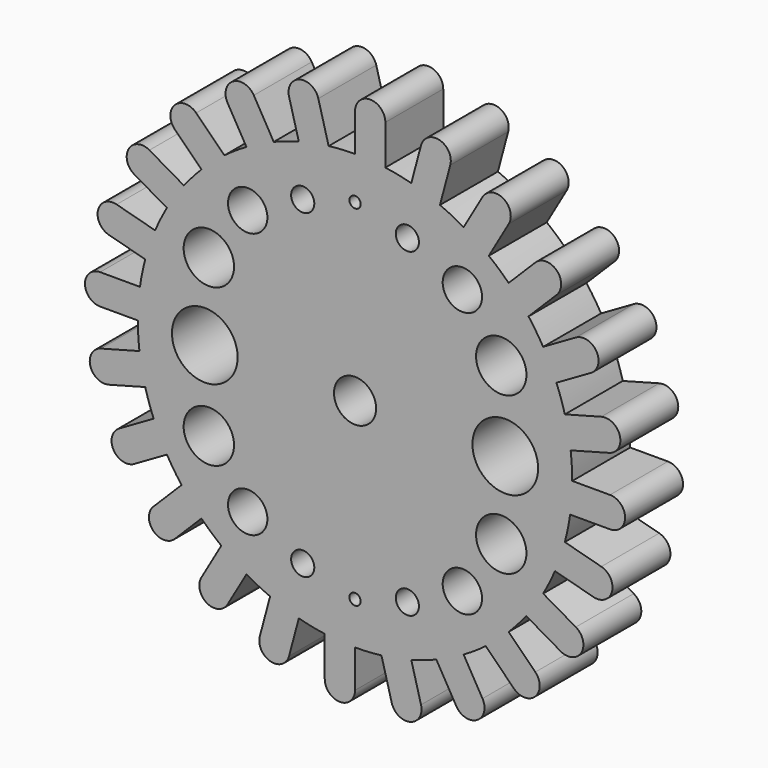
from build123d import *

# Parameters (mm, degrees)
F0_R     = 4.064719
F0_R_2   = 8.836782
F0_R_3   = 6.907397
F0_R_4   = 1.972813
F0_R_5   = 11.525027
F0_R_6   = 7.391959
F1_DEPTH = 25.4


with BuildPart() as f1:
    # F0 (on Front) → F1 (new body)
    with BuildSketch(Plane.XZ):
        with BuildLine():
            ThreePointArc((75.455146, -10.628306), (76.013558, -5.327187), (76.2, 0))
            ThreePointArc((76.2, 0), (76.058589, 4.640148), (75.634883, 9.263073))
            ThreePointArc((75.634883, 9.263073), (74.802237, 14.528089), (73.603548, 19.722011))
            ThreePointArc((73.603548, 19.722011), (72.265997, 24.16745), (70.660227, 28.52319))
            ThreePointArc((70.660227, 28.52319), (68.493266, 33.3933), (65.991136, 38.1))
            ThreePointArc((65.991136, 38.1), (63.548597, 42.047781), (60.870193, 45.839498))
            ThreePointArc((60.870193, 45.839498), (57.516593, 49.982812), (53.881537, 53.881537))
            ThreePointArc((53.881537, 53.881537), (50.500464, 57.062624), (46.931956, 60.03192))
            ThreePointArc((46.931956, 60.03192), (42.620259, 63.166079), (38.1, 65.991136))
            ThreePointArc((38.1, 65.991136), (34.010809, 68.188745), (29.795384, 70.133266))
            ThreePointArc((29.795384, 70.133266), (24.819425, 72.044682), (19.722011, 73.603548))
            ThreePointArc((19.722011, 73.603548), (15.203373, 74.667914), (10.628306, 75.455146))
            ThreePointArc((10.628306, 75.455146), (5.327187, 76.013558), (0, 76.2))
            ThreePointArc((0, 76.2), (-4.640148, 76.058589), (-9.263073, 75.634883))
            ThreePointArc((-9.263073, 75.634883), (-14.528089, 74.802237), (-19.722011, 73.603548))
            ThreePointArc((-19.722011, 73.603548), (-24.16745, 72.265997), (-28.52319, 70.660227))
            ThreePointArc((-28.52319, 70.660227), (-33.3933, 68.493266), (-38.1, 65.991136))
            ThreePointArc((-38.1, 65.991136), (-42.047781, 63.548597), (-45.839498, 60.870193))
            ThreePointArc((-45.839498, 60.870193), (-49.982812, 57.516593), (-53.881537, 53.881537))
            ThreePointArc((-53.881537, 53.881537), (-57.062624, 50.500464), (-60.03192, 46.931956))
            ThreePointArc((-60.03192, 46.931956), (-63.166079, 42.620259), (-65.991136, 38.1))
            ThreePointArc((-65.991136, 38.1), (-68.188745, 34.010809), (-70.133266, 29.795384))
            ThreePointArc((-70.133266, 29.795384), (-72.044682, 24.819425), (-73.603548, 19.722011))
            ThreePointArc((-73.603548, 19.722011), (-74.667914, 15.203373), (-75.455146, 10.628306))
            ThreePointArc((-75.455146, 10.628306), (-76.013558, 5.327187), (-76.2, 0))
            ThreePointArc((-76.2, 0), (-76.058589, -4.640148), (-75.634883, -9.263073))
            ThreePointArc((-75.634883, -9.263073), (-74.802237, -14.528089), (-73.603548, -19.722011))
            ThreePointArc((-73.603548, -19.722011), (-72.265997, -24.16745), (-70.660227, -28.52319))
            ThreePointArc((-70.660227, -28.52319), (-68.493266, -33.3933), (-65.991136, -38.1))
            ThreePointArc((-65.991136, -38.1), (-63.548597, -42.047781), (-60.870193, -45.839498))
            ThreePointArc((-60.870193, -45.839498), (-57.516593, -49.982812), (-53.881537, -53.881537))
            ThreePointArc((-53.881537, -53.881537), (-50.500464, -57.062624), (-46.931956, -60.03192))
            ThreePointArc((-46.931956, -60.03192), (-42.620259, -63.166079), (-38.1, -65.991136))
            ThreePointArc((-38.1, -65.991136), (-34.010809, -68.188745), (-29.795384, -70.133266))
            ThreePointArc((-29.795384, -70.133266), (-24.819425, -72.044682), (-19.722011, -73.603548))
            ThreePointArc((-19.722011, -73.603548), (-15.203373, -74.667914), (-10.628306, -75.455146))
            ThreePointArc((-10.628306, -75.455146), (-5.327187, -76.013558), (0, -76.2))
            ThreePointArc((0, -76.2), (4.640148, -76.058589), (9.263073, -75.634883))
            ThreePointArc((9.263073, -75.634883), (14.528089, -74.802237), (19.722011, -73.603548))
            ThreePointArc((19.722011, -73.603548), (24.16745, -72.265997), (28.52319, -70.660227))
            ThreePointArc((28.52319, -70.660227), (33.3933, -68.493266), (38.1, -65.991136))
            ThreePointArc((38.1, -65.991136), (42.047781, -63.548597), (45.839498, -60.870193))
            ThreePointArc((45.839498, -60.870193), (49.982812, -57.516593), (53.881537, -53.881537))
            ThreePointArc((53.881537, -53.881537), (57.062624, -50.500464), (60.03192, -46.931956))
            ThreePointArc((60.03192, -46.931956), (63.166079, -42.620259), (65.991136, -38.1))
            ThreePointArc((65.991136, -38.1), (68.188745, -34.010809), (70.133266, -29.795384))
            ThreePointArc((70.133266, -29.795384), (72.044682, -24.819425), (73.603548, -19.722011))
            ThreePointArc((73.603548, -19.722011), (74.667914, -15.203373), (75.455146, -10.628306))
        make_face()
        with Locations((-18.35509, -56.214772)):
            Circle(F0_R, mode=Mode.SUBTRACT)
        with Locations((-51.286597, -27.541656)):
            Circle(F0_R_2, mode=Mode.SUBTRACT)
        with Locations((-37.659761, -46.562437)):
            Circle(F0_R_3, mode=Mode.SUBTRACT)
        with Locations((0, -61.324835)):
            Circle(F0_R_4, mode=Mode.SUBTRACT)
        with Locations((18.35509, -56.214772)):
            Circle(F0_R, mode=Mode.SUBTRACT)
        with Locations((37.659761, -46.562437)):
            Circle(F0_R_3, mode=Mode.SUBTRACT)
        with Locations((51.286597, -27.541656)):
            Circle(F0_R_2, mode=Mode.SUBTRACT)
        with Locations((-52.706052, 0)):
            Circle(F0_R_5, mode=Mode.SUBTRACT)
        with Locations((-51.286597, 27.541656)):
            Circle(F0_R_2, mode=Mode.SUBTRACT)
        with Locations((-37.659761, 46.562437)):
            Circle(F0_R_3, mode=Mode.SUBTRACT)
        with Locations((-18.35509, 56.214772)):
            Circle(F0_R, mode=Mode.SUBTRACT)
        Circle(F0_R_6, mode=Mode.SUBTRACT)
        with Locations((37.659761, 46.562437)):
            Circle(F0_R_3, mode=Mode.SUBTRACT)
        with Locations((52.706052, 0)):
            Circle(F0_R_5, mode=Mode.SUBTRACT)
        with Locations((51.286597, 27.541656)):
            Circle(F0_R_2, mode=Mode.SUBTRACT)
        with Locations((18.35509, 56.214772)):
            Circle(F0_R, mode=Mode.SUBTRACT)
        with Locations((0, 61.324835)):
            Circle(F0_R_4, mode=Mode.SUBTRACT)
        with BuildLine():
            Line((89.434154, 0), (76.2, 0))
            ThreePointArc((76.2, 0), (76.013558, -5.327187), (75.455146, -10.628306))
            Line((75.455146, -10.628306), (89.434154, -10.628306))
            ThreePointArc((89.434154, -10.628306), (94.748307, -5.314153), (89.434154, 0))
        make_face()
        with BuildLine():
            ThreePointArc((73.603548, 19.722011), (74.802237, 14.528089), (75.634883, 9.263073))
            Line((75.634883, 9.263073), (89.137568, 12.881107))
            ThreePointArc((89.137568, 12.881107), (92.895241, 19.389589), (86.386759, 23.147262))
            Line((86.386759, 23.147262), (73.603548, 19.722011))
        make_face()
        with BuildLine():
            Line((86.386759, -23.147262), (73.603548, -19.722011))
            ThreePointArc((73.603548, -19.722011), (72.044682, -24.819425), (70.133266, -29.795384))
            Line((70.133266, -29.795384), (83.635951, -33.413418))
            ThreePointArc((83.635951, -33.413418), (90.144433, -29.655744), (86.386759, -23.147262))
        make_face()
        with BuildLine():
            ThreePointArc((65.991136, 38.1), (68.493266, 33.3933), (70.660227, 28.52319))
            Line((70.660227, 28.52319), (82.766403, 35.512694))
            ThreePointArc((82.766403, 35.512694), (84.711518, 42.771962), (77.45225, 44.717077))
            Line((77.45225, 44.717077), (65.991136, 38.1))
        make_face()
        with BuildLine():
            Line((77.45225, -44.717077), (65.991136, -38.1))
            ThreePointArc((65.991136, -38.1), (63.166079, -42.620259), (60.03192, -46.931956))
            Line((60.03192, -46.931956), (72.138096, -53.92146))
            ThreePointArc((72.138096, -53.92146), (79.397365, -51.976345), (77.45225, -44.717077))
        make_face()
        with BuildLine():
            ThreePointArc((53.881537, 53.881537), (57.516593, 49.982812), (60.870193, 45.839498))
            Line((60.870193, 45.839498), (70.754844, 55.72415))
            ThreePointArc((70.754844, 55.72415), (70.754844, 63.239497), (63.239497, 63.239497))
            Line((63.239497, 63.239497), (53.881537, 53.881537))
        make_face()
        with BuildLine():
            Line((63.239497, -63.239497), (53.881537, -53.881537))
            ThreePointArc((53.881537, -53.881537), (49.982812, -57.516593), (45.839498, -60.870193))
            Line((45.839498, -60.870193), (55.72415, -70.754844))
            ThreePointArc((55.72415, -70.754844), (63.239497, -70.754844), (63.239497, -63.239497))
        make_face()
        with BuildLine():
            ThreePointArc((38.1, 65.991136), (42.620259, 63.166079), (46.931956, 60.03192))
            Line((46.931956, 60.03192), (53.92146, 72.138096))
            ThreePointArc((53.92146, 72.138096), (51.976345, 79.397365), (44.717077, 77.45225))
            Line((44.717077, 77.45225), (38.1, 65.991136))
        make_face()
        with BuildLine():
            Line((44.717077, -77.45225), (38.1, -65.991136))
            ThreePointArc((38.1, -65.991136), (33.3933, -68.493266), (28.52319, -70.660227))
            Line((28.52319, -70.660227), (35.512694, -82.766403))
            ThreePointArc((35.512694, -82.766403), (42.771962, -84.711518), (44.717077, -77.45225))
        make_face()
        with BuildLine():
            ThreePointArc((19.722011, 73.603548), (24.819425, 72.044682), (29.795384, 70.133266))
            Line((29.795384, 70.133266), (33.413418, 83.635951))
            ThreePointArc((33.413418, 83.635951), (29.655744, 90.144433), (23.147262, 86.386759))
            Line((23.147262, 86.386759), (19.722011, 73.603548))
        make_face()
        with BuildLine():
            Line((23.147262, -86.386759), (19.722011, -73.603548))
            ThreePointArc((19.722011, -73.603548), (14.528089, -74.802237), (9.263073, -75.634883))
            Line((9.263073, -75.634883), (12.881107, -89.137568))
            ThreePointArc((12.881107, -89.137568), (19.389589, -92.895241), (23.147262, -86.386759))
        make_face()
        with BuildLine():
            ThreePointArc((0, 76.2), (5.327187, 76.013558), (10.628306, 75.455146))
            Line((10.628306, 75.455146), (10.628306, 89.434154))
            ThreePointArc((10.628306, 89.434154), (5.314153, 94.748307), (0, 89.434154))
            Line((0, 89.434154), (0, 76.2))
        make_face()
        with BuildLine():
            Line((0, -89.434154), (0, -76.2))
            ThreePointArc((0, -76.2), (-5.327187, -76.013558), (-10.628306, -75.455146))
            Line((-10.628306, -75.455146), (-10.628306, -89.434154))
            ThreePointArc((-10.628306, -89.434154), (-5.314153, -94.748307), (0, -89.434154))
        make_face()
        with BuildLine():
            ThreePointArc((-19.722011, 73.603548), (-14.528089, 74.802237), (-9.263073, 75.634883))
            Line((-9.263073, 75.634883), (-12.881107, 89.137568))
            ThreePointArc((-12.881107, 89.137568), (-19.389589, 92.895241), (-23.147262, 86.386759))
            Line((-23.147262, 86.386759), (-19.722011, 73.603548))
        make_face()
        with BuildLine():
            Line((-23.147262, -86.386759), (-19.722011, -73.603548))
            ThreePointArc((-19.722011, -73.603548), (-24.819425, -72.044682), (-29.795384, -70.133266))
            Line((-29.795384, -70.133266), (-33.413418, -83.635951))
            ThreePointArc((-33.413418, -83.635951), (-29.655744, -90.144433), (-23.147262, -86.386759))
        make_face()
        with BuildLine():
            ThreePointArc((-38.1, 65.991136), (-33.3933, 68.493266), (-28.52319, 70.660227))
            Line((-28.52319, 70.660227), (-35.512694, 82.766403))
            ThreePointArc((-35.512694, 82.766403), (-42.771962, 84.711518), (-44.717077, 77.45225))
            Line((-44.717077, 77.45225), (-38.1, 65.991136))
        make_face()
        with BuildLine():
            Line((-44.717077, -77.45225), (-38.1, -65.991136))
            ThreePointArc((-38.1, -65.991136), (-42.620259, -63.166079), (-46.931956, -60.03192))
            Line((-46.931956, -60.03192), (-53.92146, -72.138096))
            ThreePointArc((-53.92146, -72.138096), (-51.976345, -79.397365), (-44.717077, -77.45225))
        make_face()
        with BuildLine():
            ThreePointArc((-53.881537, 53.881537), (-49.982812, 57.516593), (-45.839498, 60.870193))
            Line((-45.839498, 60.870193), (-55.72415, 70.754844))
            ThreePointArc((-55.72415, 70.754844), (-63.239497, 70.754844), (-63.239497, 63.239497))
            Line((-63.239497, 63.239497), (-53.881537, 53.881537))
        make_face()
        with BuildLine():
            Line((-63.239497, -63.239497), (-53.881537, -53.881537))
            ThreePointArc((-53.881537, -53.881537), (-57.516593, -49.982812), (-60.870193, -45.839498))
            Line((-60.870193, -45.839498), (-70.754844, -55.72415))
            ThreePointArc((-70.754844, -55.72415), (-70.754844, -63.239497), (-63.239497, -63.239497))
        make_face()
        with BuildLine():
            ThreePointArc((-65.991136, 38.1), (-63.166079, 42.620259), (-60.03192, 46.931956))
            Line((-60.03192, 46.931956), (-72.138096, 53.92146))
            ThreePointArc((-72.138096, 53.92146), (-79.397365, 51.976345), (-77.45225, 44.717077))
            Line((-77.45225, 44.717077), (-65.991136, 38.1))
        make_face()
        with BuildLine():
            Line((-77.45225, -44.717077), (-65.991136, -38.1))
            ThreePointArc((-65.991136, -38.1), (-68.493266, -33.3933), (-70.660227, -28.52319))
            Line((-70.660227, -28.52319), (-82.766403, -35.512694))
            ThreePointArc((-82.766403, -35.512694), (-84.711518, -42.771962), (-77.45225, -44.717077))
        make_face()
        with BuildLine():
            ThreePointArc((-73.603548, 19.722011), (-72.044682, 24.819425), (-70.133266, 29.795384))
            Line((-70.133266, 29.795384), (-83.635951, 33.413418))
            ThreePointArc((-83.635951, 33.413418), (-90.144433, 29.655744), (-86.386759, 23.147262))
            Line((-86.386759, 23.147262), (-73.603548, 19.722011))
        make_face()
        with BuildLine():
            Line((-86.386759, -23.147262), (-73.603548, -19.722011))
            ThreePointArc((-73.603548, -19.722011), (-74.802237, -14.528089), (-75.634883, -9.263073))
            Line((-75.634883, -9.263073), (-89.137568, -12.881107))
            ThreePointArc((-89.137568, -12.881107), (-92.895241, -19.389589), (-86.386759, -23.147262))
        make_face()
        with BuildLine():
            ThreePointArc((-76.2, 0), (-76.013558, 5.327187), (-75.455146, 10.628306))
            Line((-75.455146, 10.628306), (-89.434154, 10.628306))
            ThreePointArc((-89.434154, 10.628306), (-94.748307, 5.314153), (-89.434154, 0))
            Line((-89.434154, 0), (-76.2, 0))
        make_face()
    extrude(amount=F1_DEPTH)


solid = f1.part
